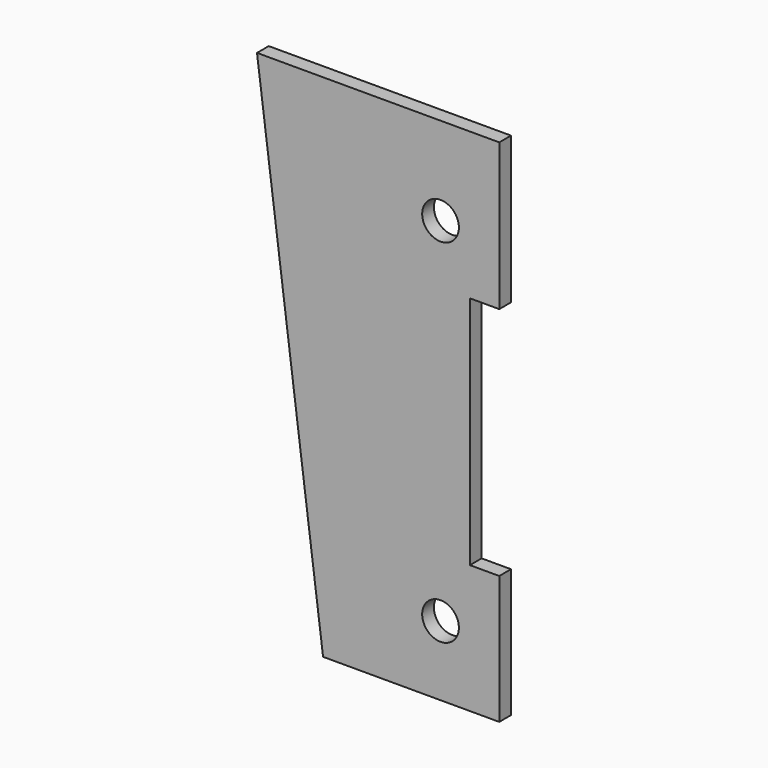
from build123d import *

# Parameters (mm, degrees)
F0_R     = 7.9375
F1_DEPTH = 6.35


with BuildPart() as f1:
    # F0 (on Front) → F1 (new body)
    with BuildSketch(Plane.XZ):
        Polygon((86.684353, 139.7), (-18.090647, 139.7), (10.484353, -80.9625), (86.684353, -80.9625), (86.684353, -25.4), (73.984353, -25.4), (73.984353, 76.2), (86.684353, 76.2), align=None)
        with Locations((61.284353, -50.8)):
            Circle(F0_R, mode=Mode.SUBTRACT)
        with Locations((61.284353, 101.6)):
            Circle(F0_R, mode=Mode.SUBTRACT)
    extrude(amount=F1_DEPTH)


solid = f1.part
